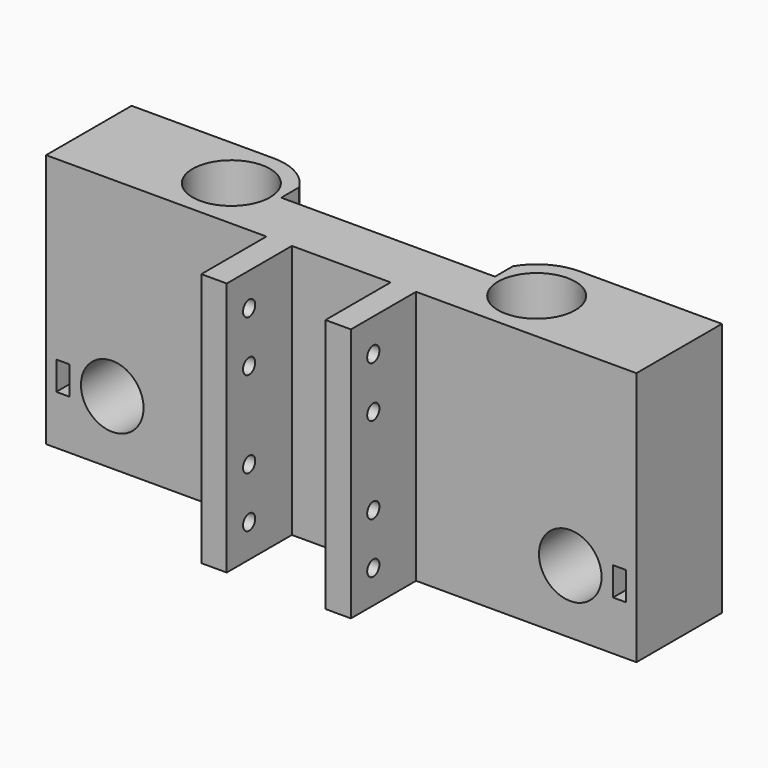
from build123d import *

# Parameters (mm, degrees)
SKETCH_R             = 7.6
PAD_DEPTH            = 50
SKETCH006_R          = 6.15
SKETCH006_W          = 2.6
SKETCH006_H          = 5.6
POCKET_DEPTH         = 10.501
POCKET_DEPTH_BACK    = 10.501
SKETCH015_W          = 42
SKETCH015_H          = 21
POCKET007_DEPTH      = 50.001
SKETCH022_W          = 5
SKETCH022_H          = 16
PAD010_DEPTH         = 50
SKETCH023_R          = 1.5
POCKET012_DEPTH      = 58.001
POCKET012_DEPTH_BACK = 58.001


with BuildPart() as part:
    # Sketch → Pad (new body)
    with BuildSketch(Plane.XY):
        with BuildLine():
            Line((-19.5477275198, 1), (19.5477275198, 1))
            ThreePointArc((30, 10.5), (22.9377765541, 7.770135134), (19.5477275198, 1))
            Line((58, 10.5), (30, 10.5))
            Line((58, -10.5), (58, 10.5))
            Line((58, -10.5), (-58, -10.5))
            Line((-58, -10.5), (-58, 10.5))
            Line((-58, 10.5), (-30, 10.5))
            ThreePointArc((-19.5477275198, 1), (-22.9377765541, 7.770135134), (-30, 10.5))
        make_face()
        with Locations((-30, 0)):
            Circle(SKETCH_R, mode=Mode.SUBTRACT)
        with Locations((30, 0)):
            Circle(SKETCH_R, mode=Mode.SUBTRACT)
    extrude(amount=PAD_DEPTH)

    # Sketch006 → Pocket (cut, two sides)
    with BuildSketch(Plane.XZ) as pocket_sk:
        with Locations((-45, 12.5)):
            Circle(SKETCH006_R)
        with Locations((45, 12.5)):
            Circle(SKETCH006_R)
        with Locations((-54.7, 12.5)):
            Rectangle(SKETCH006_W, SKETCH006_H)
        with Locations((54.7, 12.5)):
            Rectangle(SKETCH006_W, SKETCH006_H)
    extrude(amount=-POCKET_DEPTH, mode=Mode.SUBTRACT)
    extrude(pocket_sk.sketch, amount=POCKET_DEPTH_BACK, mode=Mode.SUBTRACT)

    # Sketch015 → Pocket007 (cut, through all)
    with BuildSketch(Plane.XY):
        with Locations((0, 11.5)):
            Rectangle(SKETCH015_W, SKETCH015_H)
    extrude(amount=POCKET007_DEPTH, mode=Mode.SUBTRACT)

    # Sketch022 → Pad010 (join)
    with BuildSketch(Plane.XY):
        with Locations((-12.2, -18.5)):
            Rectangle(SKETCH022_W, SKETCH022_H)
        with Locations((12.2, -18.5)):
            Rectangle(SKETCH022_W, SKETCH022_H)
    extrude(amount=PAD010_DEPTH)

    # Sketch023 → Pocket012 (cut, two sides)
    with BuildSketch(Plane.YZ) as pocket012_sk:
        with Locations((-21, 6.5)):
            Circle(SKETCH023_R)
        with Locations((-21, 16.5)):
            Circle(SKETCH023_R)
        with Locations((-21, 33.5)):
            Circle(SKETCH023_R)
        with Locations((-21, 43.5)):
            Circle(SKETCH023_R)
    extrude(amount=-POCKET012_DEPTH, mode=Mode.SUBTRACT)
    extrude(pocket012_sk.sketch, amount=POCKET012_DEPTH_BACK, mode=Mode.SUBTRACT)


with BuildPart() as part_1:
    # Body placement: moved
    add(part.part.moved(Location((0, 41, 0))))


solid = part_1.part
